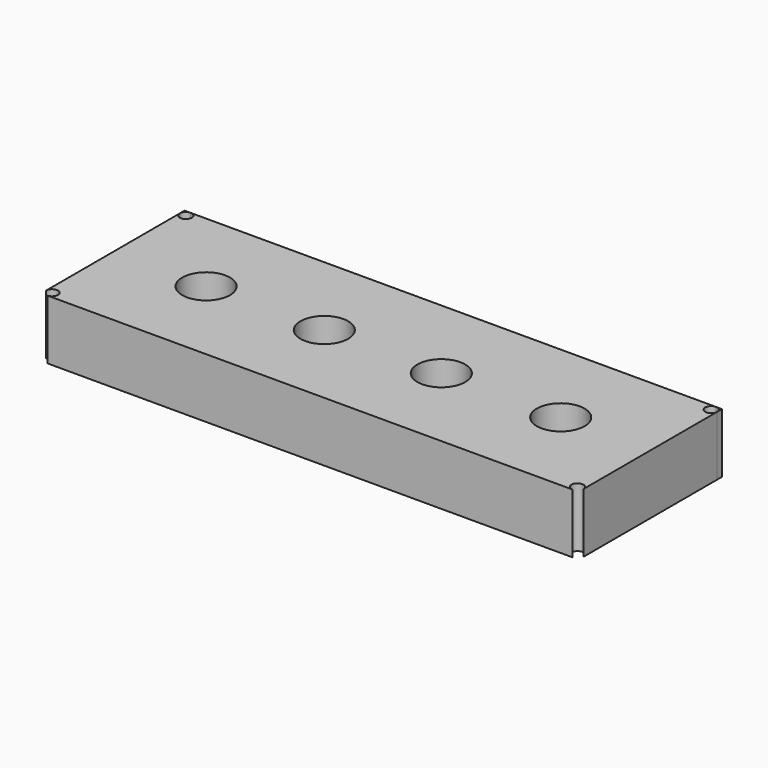
from build123d import *

# Parameters (mm, degrees)
F1_DEPTH = 50
F0_R     = 20


with BuildPart() as f1:
    # F0 (on Top) → F1 (new body)
    with BuildSketch(Plane.XY):
        with BuildLine():
            Line((-220, 75), (-225, 75))
            Line((-225, 75), (-225, 70))
            ThreePointArc((-225, 70), (-223.5355339059, 73.5355339059), (-220, 75))
        make_face()
    extrude(amount=F1_DEPTH)


with BuildPart() as f1b:
    # F0 (on Top) → F1, piece 2 (new body)
    with BuildSketch(Plane.XY):
        with BuildLine():
            Line((219.9999999506, 75), (-220, 75))
            ThreePointArc((-220, 75), (-216.4644660941, 73.5355339059), (-215, 70))
            ThreePointArc((-215, 70), (-220, 65), (-225, 70))
            Line((-225, 70), (-225, -70))
            ThreePointArc((-225, -70), (-220, -65), (-215, -70))
            ThreePointArc((-215, -70), (-216.4644660941, -73.5355339059), (-220, -75))
            Line((-220, -75), (220, -75))
            ThreePointArc((220, -75), (216.4644660941, -66.4644660941), (225, -70))
            Line((225, -70), (225, 70))
            ThreePointArc((225, 70), (216.4644661115, 66.4644660766), (219.9999999506, 75))
        make_face()
        with Locations((-147, 0)):
            Circle(F0_R, mode=Mode.SUBTRACT)
        with Locations((-48, 0)):
            Circle(F0_R, mode=Mode.SUBTRACT)
        with Locations((50, 0)):
            Circle(F0_R, mode=Mode.SUBTRACT)
        with Locations((150, 0)):
            Circle(F0_R, mode=Mode.SUBTRACT)
        with BuildLine():
            Line((219.9999999506, 75), (-220, 75))
            ThreePointArc((-220, 75), (-216.4644660941, 73.5355339059), (-215, 70))
            ThreePointArc((-215, 70), (-220, 65), (-225, 70))
            Line((-225, 70), (-225, -70))
            ThreePointArc((-225, -70), (-220, -65), (-215, -70))
            ThreePointArc((-215, -70), (-216.4644660941, -73.5355339059), (-220, -75))
            Line((-220, -75), (220, -75))
            ThreePointArc((220, -75), (216.4644660941, -66.4644660941), (225, -70))
            Line((225, -70), (225, 70))
            ThreePointArc((225, 70), (216.4644661115, 66.4644660766), (219.9999999506, 75))
        make_face()
        with Locations((-147, 0)):
            Circle(F0_R, mode=Mode.SUBTRACT)
        with Locations((-48, 0)):
            Circle(F0_R, mode=Mode.SUBTRACT)
        with Locations((50, 0)):
            Circle(F0_R, mode=Mode.SUBTRACT)
        with Locations((150, 0)):
            Circle(F0_R, mode=Mode.SUBTRACT)
    extrude(amount=F1_DEPTH)


with BuildPart() as f1c:
    # F0 (on Top) → F1, piece 3 (new body)
    with BuildSketch(Plane.XY):
        with BuildLine():
            Line((225, 75), (219.9999999506, 75))
            ThreePointArc((219.9999999506, 75), (223.5355338885, 73.5355339234), (225, 70))
            Line((225, 70), (225, 75))
        make_face()
    extrude(amount=F1_DEPTH)


solid = Compound([f1.part, f1b.part, f1c.part])
